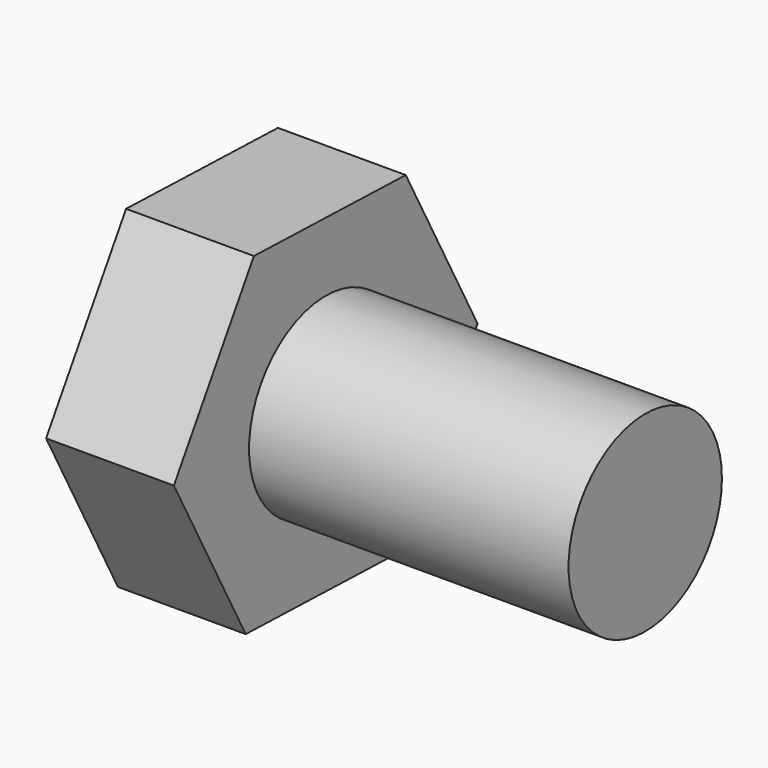
from build123d import *

# Parameters (mm, degrees)
F1_DEPTH = 20
F2_R     = 15
F3_DEPTH = 50


with BuildPart() as f1:
    # F0 (on Right) → F1 (new body)
    with BuildSketch(Plane.YZ):
        Polygon((-15.648834, -25.261711), (14.052867, -26.183143), (29.701701, -0.921432), (15.648834, 25.261711), (-14.052867, 26.183143), (-29.701701, 0.921432), align=None)
    extrude(amount=-F1_DEPTH)

    # F2 (on face) → F3 (join)
    with BuildSketch(Plane.YZ):
        Circle(F2_R)
    extrude(amount=F3_DEPTH)


solid = f1.part
